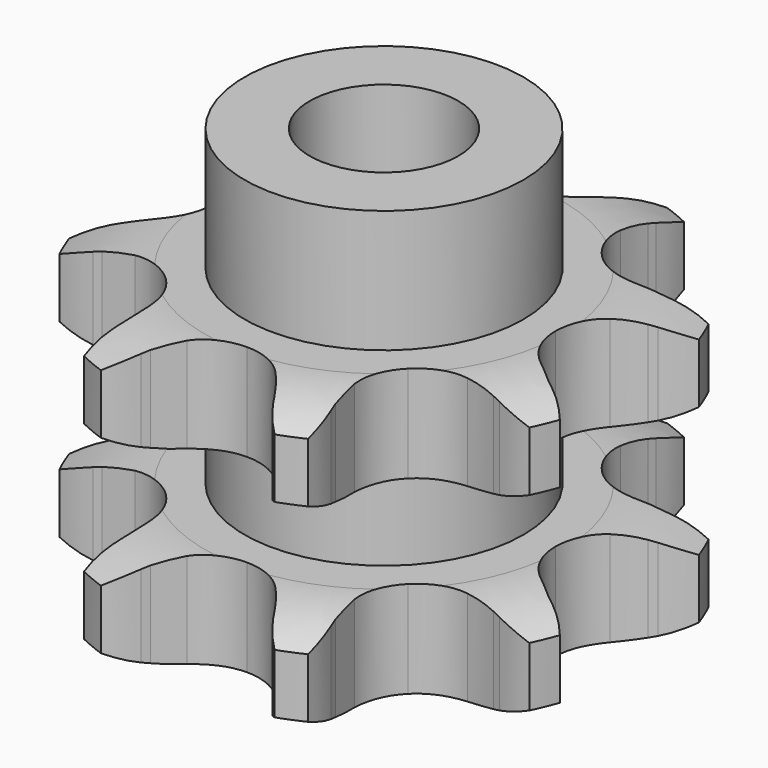
from build123d import *

# Parameters (mm, degrees)
PAD_DEPTH         = 15.4
SKETCH001_R       = 7.5
PAD001_DEPTH      = 22
SKETCH002_R       = 4
POCKET_DEPTH      = 0.001
POCKET_DEPTH_BACK = -22.001


with BuildPart() as part:
    # Sprocket → Pad (new body)
    with BuildSketch(Plane.XY):
        with BuildLine():
            ThreePointArc((-5.766758, 13.922185), (-4.521193, 13.063008), (-3.559374, 11.894879))
            Line((-3.559374, 11.894879), (-3.339197, 11.535583))
            ThreePointArc((-3.339197, 11.535583), (-2.890474, 10.876545), (-2.38065, 10.263548))
            ThreePointArc((-2.38065, 10.263548), (-1.300459, 9.489494), (0, 9.216037))
            ThreePointArc((0, 9.216037), (1.300459, 9.489494), (2.38065, 10.263548))
            ThreePointArc((2.38065, 10.263548), (2.890474, 10.876545), (3.339197, 11.535583))
            Line((3.339197, 11.535583), (3.559374, 11.894879))
            ThreePointArc((3.559374, 11.894879), (4.521193, 13.063008), (5.766758, 13.922185))
            ThreePointArc((5.766758, 13.922185), (6.039975, 12.433907), (5.894092, 10.927807))
            Line((5.894092, 10.927807), (5.79572, 10.518058))
            ThreePointArc((5.79572, 10.518058), (5.647005, 9.734752), (5.574051, 8.940798))
            ThreePointArc((5.574051, 8.940798), (5.790522, 7.629649), (6.516722, 6.516722))
            ThreePointArc((6.516722, 6.516722), (7.629649, 5.790522), (8.940798, 5.574051))
            Line((8.940798, 5.574051), (10.518058, 5.79572))
            ThreePointArc((10.518058, 5.79572), (10.722309, 5.847504), (10.927807, 5.894092))
            ThreePointArc((10.927807, 5.894092), (12.433907, 6.039975), (13.922185, 5.766758))
            ThreePointArc((13.922185, 5.766758), (13.063008, 4.521193), (11.894879, 3.559374))
            Line((11.894879, 3.559374), (11.535583, 3.339197))
            ThreePointArc((11.535583, 3.339197), (10.876545, 2.890474), (10.263548, 2.38065))
            ThreePointArc((10.263548, 2.38065), (9.489494, 1.300459), (9.216037, 0))
            ThreePointArc((9.216037, 0), (9.489494, -1.300459), (10.263548, -2.38065))
            Line((10.263548, -2.38065), (11.535583, -3.339197))
            ThreePointArc((11.535583, -3.339197), (11.716627, -3.447007), (11.894879, -3.559374))
            ThreePointArc((11.894879, -3.559374), (13.063008, -4.521193), (13.922185, -5.766758))
            ThreePointArc((13.922185, -5.766758), (12.433907, -6.039975), (10.927807, -5.894092))
            Line((10.927807, -5.894092), (10.518058, -5.79572))
            ThreePointArc((10.518058, -5.79572), (9.734752, -5.647005), (8.940798, -5.574051))
            ThreePointArc((8.940798, -5.574051), (7.629649, -5.790522), (6.516722, -6.516722))
            ThreePointArc((6.516722, -6.516722), (5.790522, -7.629649), (5.574051, -8.940798))
            Line((5.574051, -8.940798), (5.79572, -10.518058))
            ThreePointArc((5.79572, -10.518058), (5.847504, -10.722309), (5.894092, -10.927807))
            ThreePointArc((5.894092, -10.927807), (6.039975, -12.433907), (5.766758, -13.922185))
            ThreePointArc((5.766758, -13.922185), (4.521193, -13.063008), (3.559374, -11.894879))
            Line((3.559374, -11.894879), (3.339197, -11.535583))
            ThreePointArc((3.339197, -11.535583), (2.890474, -10.876545), (2.38065, -10.263548))
            ThreePointArc((2.38065, -10.263548), (1.300459, -9.489494), (0, -9.216037))
            ThreePointArc((0, -9.216037), (-1.300459, -9.489494), (-2.38065, -10.263548))
            Line((-2.38065, -10.263548), (-3.339197, -11.535583))
            ThreePointArc((-3.339197, -11.535583), (-3.447007, -11.716627), (-3.559374, -11.894879))
            ThreePointArc((-3.559374, -11.894879), (-4.521193, -13.063008), (-5.766758, -13.922185))
            ThreePointArc((-5.766758, -13.922185), (-6.039975, -12.433907), (-5.894092, -10.927807))
            Line((-5.894092, -10.927807), (-5.79572, -10.518058))
            ThreePointArc((-5.79572, -10.518058), (-5.647005, -9.734752), (-5.574051, -8.940798))
            ThreePointArc((-5.574051, -8.940798), (-5.790522, -7.629649), (-6.516722, -6.516722))
            ThreePointArc((-6.516722, -6.516722), (-7.629649, -5.790522), (-8.940798, -5.574051))
            Line((-8.940798, -5.574051), (-10.518058, -5.79572))
            ThreePointArc((-10.518058, -5.79572), (-10.722309, -5.847504), (-10.927807, -5.894092))
            ThreePointArc((-10.927807, -5.894092), (-12.433907, -6.039975), (-13.922185, -5.766758))
            ThreePointArc((-13.922185, -5.766758), (-13.063008, -4.521193), (-11.894879, -3.559374))
            Line((-11.894879, -3.559374), (-11.535583, -3.339197))
            ThreePointArc((-11.535583, -3.339197), (-10.876545, -2.890474), (-10.263548, -2.38065))
            ThreePointArc((-10.263548, -2.38065), (-9.489494, -1.300459), (-9.216037, 0))
            ThreePointArc((-9.216037, 0), (-9.489494, 1.300459), (-10.263548, 2.38065))
            Line((-10.263548, 2.38065), (-11.535583, 3.339197))
            ThreePointArc((-11.535583, 3.339197), (-11.716627, 3.447007), (-11.894879, 3.559374))
            ThreePointArc((-11.894879, 3.559374), (-13.063008, 4.521193), (-13.922185, 5.766758))
            ThreePointArc((-13.922185, 5.766758), (-12.433907, 6.039975), (-10.927807, 5.894092))
            Line((-10.927807, 5.894092), (-10.518058, 5.79572))
            ThreePointArc((-10.518058, 5.79572), (-9.734752, 5.647005), (-8.940798, 5.574051))
            ThreePointArc((-8.940798, 5.574051), (-7.629649, 5.790522), (-6.516722, 6.516722))
            ThreePointArc((-6.516722, 6.516722), (-5.790522, 7.629649), (-5.574051, 8.940798))
            Line((-5.574051, 8.940798), (-5.79572, 10.518058))
            ThreePointArc((-5.79572, 10.518058), (-5.847504, 10.722309), (-5.894092, 10.927807))
            ThreePointArc((-5.894092, 10.927807), (-6.039975, 12.433907), (-5.766758, 13.922185))
        make_face()
    extrude(amount=PAD_DEPTH)

    # Sketch → Groove (revolve, cut)
    with BuildSketch(Plane.XZ):
        with BuildLine():
            ThreePointArc((9.641101, 0), (11.877169, 0.253206), (14, 1))
            Line((14, 1), (14, 4.2))
            ThreePointArc((14, 4.2), (11.877169, 4.946794), (9.641101, 5.2))
            Line((7.5, 5.2), (9.641101, 5.2))
            Line((7.5, 10.2), (7.5, 5.2))
            Line((9.641101, 10.2), (7.5, 10.2))
            ThreePointArc((9.641101, 10.2), (11.877169, 10.453206), (14, 11.2))
            Line((14, 11.2), (14, 14.4))
            ThreePointArc((14, 14.4), (11.877169, 15.146794), (9.641101, 15.4))
            Line((9.641101, 15.4), (19.641101, 15.4))
            Line((19.641101, 15.4), (19.641101, 0))
            Line((9.641101, 0), (19.641101, 0))
        make_face()
    revolve(axis=Axis((0, 0, 0), (0, 0, 1)), mode=Mode.SUBTRACT)

    # Sketch001 → Pad001 (join)
    with BuildSketch(Plane.XY):
        Circle(SKETCH001_R)
    extrude(amount=PAD001_DEPTH)

    # Sketch002 → Pocket (cut, two sides)
    with BuildSketch(Plane.XY) as pocket_sk:
        Circle(SKETCH002_R)
    extrude(amount=-POCKET_DEPTH, mode=Mode.SUBTRACT)
    extrude(pocket_sk.sketch, amount=-POCKET_DEPTH_BACK, mode=Mode.SUBTRACT)


solid = part.part
